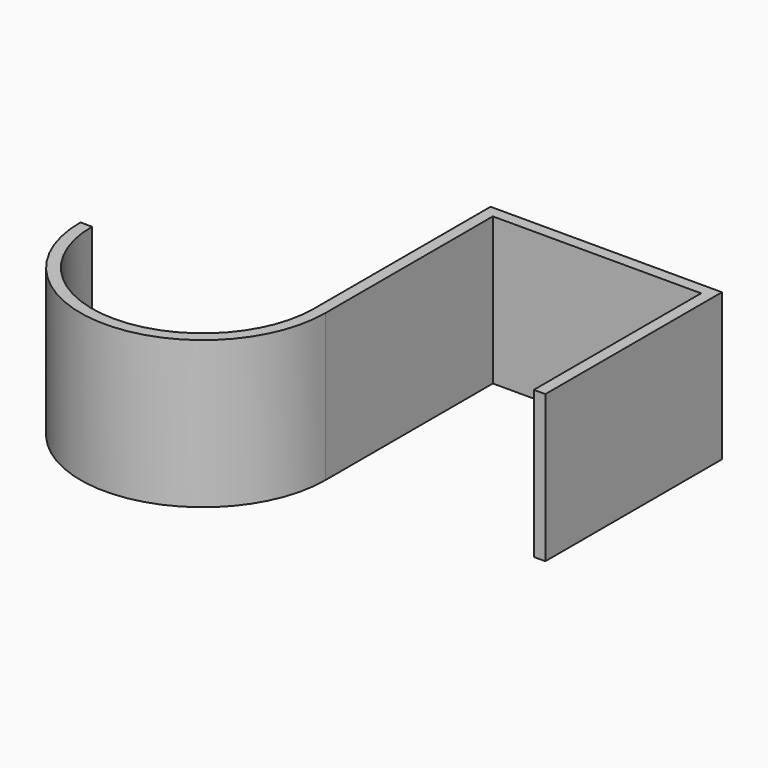
from build123d import *

# Parameters (mm, degrees)
F1_DEPTH = 25.4


with BuildPart() as f1:
    # F0 (on Top) → F1 (new body)
    with BuildSketch(Plane.XY):
        with BuildLine():
            Line((-2, 0), (0, 0))
            Line((0, 0), (0, 38.1))
            Line((0, 38.1), (-39.941, 38.1))
            Line((-39.941, 38.1), (-39.941, 0))
            ThreePointArc((-39.941, 0), (-59.099447, -19.158447), (-78.257894, 0))
            Line((-78.257894, 0), (-80.257894, 0))
            ThreePointArc((-80.257894, 0), (-59.099447, -21.158447), (-37.941, 0))
            Line((-37.941, 0), (-37.941, 36.1))
            Line((-37.941, 36.1), (-2, 36.1))
            Line((-2, 36.1), (-2, 0))
        make_face()
    extrude(amount=F1_DEPTH)


solid = f1.part
